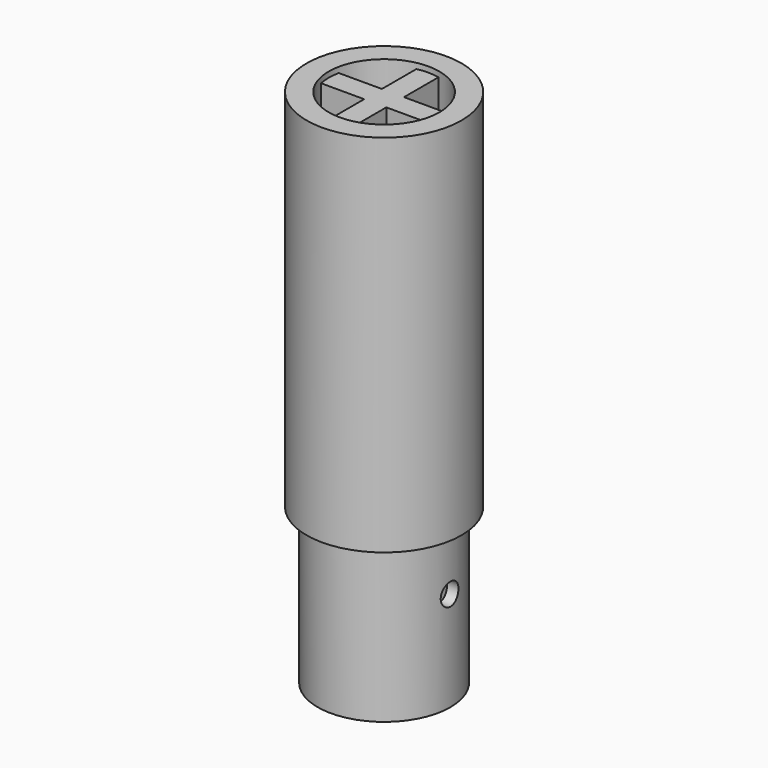
from build123d import *

# Parameters (mm, degrees)
F1_R      = 14
F1_R_2    = 10
F2_DEPTH  = 60
F4_DEPTH  = 59
F6_R      = 14
F7_DEPTH  = 6
F8_R      = 3.5
F8_R_2    = 2.25
F9_DEPTH  = 1.5
F10_R     = 12
F10_R_2   = 10
F11_DEPTH = 28
F12_R     = 2
F13_DEPTH = 12.5
F14_DEPTH = 34.0010001


with BuildPart() as f2:
    # F1 (on face) → F2 (new body)
    with BuildSketch(Plane.XY):
        Circle(F1_R)
        Circle(F1_R_2, mode=Mode.SUBTRACT)
    extrude(amount=F2_DEPTH)

    # F3 (on Top) → F4 (join)
    with BuildSketch(Plane.XY):
        with BuildLine():
            ThreePointArc((2, 9.7979589711), (0, 10), (-2, 9.7979589711))
            Line((-2, 9.7979589711), (-2, 2))
            Line((-2, 2), (-9.7979589711, 2))
            ThreePointArc((-9.7979589711, 2), (-10, 0), (-9.7979589711, -2))
            Line((-9.7979589711, -2), (-2, -2))
            Line((-2, -2), (-2, -9.7979589711))
            ThreePointArc((-2, -9.7979589711), (-1.0050896201, -9.9493615301), (0, -10))
            ThreePointArc((0, -10), (1.0050896201, -9.9493615301), (2, -9.7979589711))
            Line((2, -9.7979589711), (2, -2))
            Line((2, -2), (9.7979589711, -2))
            ThreePointArc((9.7979589711, -2), (10, 0), (9.7979589711, 2))
            Line((9.7979589711, 2), (2, 2))
            Line((2, 2), (2, 9.7979589711))
        make_face()
    extrude(amount=F4_DEPTH)

    # F6 (on Top) → F7 (join)
    with BuildSketch(Plane.XY):
        Circle(F6_R)
        with BuildLine():
            ThreePointArc((-9.7979589711, 2), (-7.0710678119, 7.0710678119), (-2, 9.7979589711))
            Line((-2, 9.7979589711), (-2, 2))
            Line((-2, 2), (-9.7979589711, 2))
        make_face(mode=Mode.SUBTRACT)
    extrude(amount=-F7_DEPTH)

    # F8 (on face) → F9 (cut)
    with BuildSketch(Plane(origin=(0, 0, -6), x_dir=(1, 0, 0), z_dir=(0, 0, -1))):
        Circle(F8_R)
        Circle(F8_R_2, mode=Mode.SUBTRACT)
    extrude(amount=-F9_DEPTH, mode=Mode.SUBTRACT)

    # F10 (on face) → F11 (join)
    with BuildSketch(Plane(origin=(0, 0, -6), x_dir=(1, 0, 0), z_dir=(0, 0, -1))):
        Circle(F10_R)
        Circle(F10_R_2, mode=Mode.SUBTRACT)
    extrude(amount=F11_DEPTH)

    # F12 (on Right) → F13 (cut, symmetric)
    with BuildSketch(Plane.YZ):
        with Locations((0, -16)):
            Circle(F12_R)
    extrude(amount=F13_DEPTH, both=True, mode=Mode.SUBTRACT)

    # F6 (on Top) → F14 (cut, through all)
    with BuildSketch(Plane.XY):
        with BuildLine():
            Line((-2, 2), (-2, 9.7979589711))
            ThreePointArc((-2, 9.7979589711), (-7.0710678119, 7.0710678119), (-9.7979589711, 2))
            Line((-9.7979589711, 2), (-2, 2))
        make_face()
    extrude(amount=-F14_DEPTH, mode=Mode.SUBTRACT)


solid = f2.part
